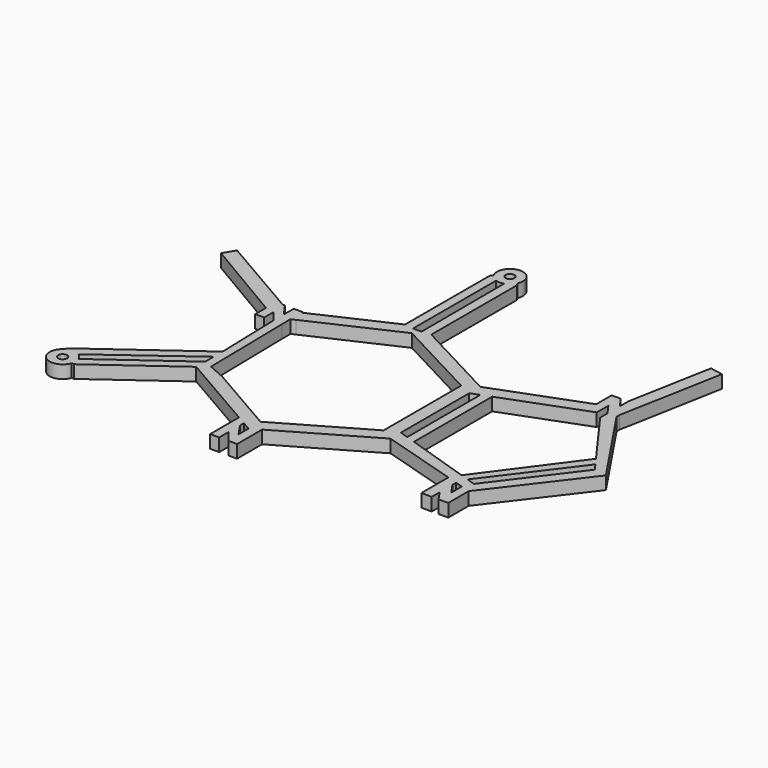
from build123d import *

# Parameters (mm, degrees)
F0_R     = 0.4318
F1_DEPTH = 1.27


with BuildPart() as f1:
    # F0 (on Top) → F1 (new body)
    with BuildSketch(Plane.XY):
        with BuildLine():
            Line((12.65347, -2.153963), (4.316134, 2.261672))
            Line((4.316134, 2.261672), (4.327364, 12.763659))
            Line((4.327364, 12.763659), (4.156866, 12.998858))
            ThreePointArc((4.156866, 12.998858), (2.963087, 14.80923), (1.900066, 12.919114))
            Line((1.900066, 12.919114), (1.711051, 12.659542))
            Line((1.711051, 12.659542), (1.699981, 2.307537))
            Line((1.699981, 2.307537), (-5.691423, -1.091549))
            Line((-5.691423, -1.091549), (-5.691423, -2.478054))
            Line((-5.691423, -2.478054), (-5.310308, -2.303015))
            Line((-5.310308, -2.303015), (3.007935, 1.517402))
            Line((3.007935, 1.517402), (11.38347, -2.918464))
            Line((11.38347, -2.918464), (11.38347, -3.767079))
            Line((11.38347, -3.767079), (11.38347, -4.793607))
            Line((11.38347, -4.793607), (11.383473, -10.512839))
            Line((11.383473, -10.512839), (11.383474, -11.539368))
            Line((11.383474, -11.539368), (11.383474, -12.419249))
            Line((11.383474, -12.419249), (3.128473, -17.185279))
            Line((3.128473, -17.185279), (2.03357, -16.553137))
            Line((2.03357, -16.553137), (1.14457, -16.039872))
            Line((1.14457, -16.039872), (-3.808432, -13.180257))
            Line((-3.808432, -13.180257), (-5.529587, -12.419254))
            Line((-5.529587, -12.419254), (-5.691423, -3.510934))
            Line((-5.691423, -3.510934), (-6.522282, -3.510934))
            Line((-6.522282, -3.510934), (-6.580308, -3.439569))
            Line((-6.580308, -3.439569), (-6.396528, -9.918688))
            Line((-6.396528, -9.918688), (-16.026936, -16.915588))
            Line((-16.026936, -16.915588), (-16.107216, -17.162667))
            ThreePointArc((-16.107216, -17.162667), (-16.212667, -19.229532), (-14.225404, -18.651748))
            Line((-14.225404, -18.651748), (-13.96561, -18.651748))
            Line((-13.96561, -18.651748), (-6.396528, -13.152489))
            Line((-6.396528, -13.152489), (1.39857, -17.652989))
            Line((1.39857, -17.652989), (1.39857, -18.651748))
            Line((1.39857, -18.651748), (1.39857, -21.191748))
            Line((1.39857, -21.191748), (2.28757, -21.191748))
            Line((2.28757, -21.191748), (2.28757, -20.055981))
            Line((2.28757, -20.055981), (3.207054, -21.186821))
            Line((3.207054, -21.186821), (4.037913, -21.191748))
            Line((4.037913, -21.191748), (4.037913, -18.646821))
            Line((4.037913, -18.646821), (4.037913, -18.126682))
            Line((4.037913, -18.126682), (12.653472, -13.152485))
            Line((12.653472, -13.152485), (20.12443, -15.416135))
            Line((20.12443, -15.416135), (20.12443, -16.178135))
            Line((20.12443, -16.178135), (20.12443, -18.718135))
            Line((20.12443, -18.718135), (21.140028, -18.718135))
            Line((21.140028, -18.718135), (21.140028, -17.745525))
            Line((21.140028, -17.745525), (21.809838, -18.718135))
            Line((21.809838, -18.718135), (22.763277, -18.718135))
            Line((22.763277, -18.718135), (22.763277, -16.215688))
            Line((22.763277, -16.215688), (29.330721, -7.616372))
            Line((29.330721, -7.616372), (23.89467, 0.487487))
            Line((23.89467, 0.487487), (23.89467, 0.851521))
            Line((23.89467, 0.851521), (23.89467, 3.027487))
            Line((23.89467, 3.027487), (23.00567, 3.027487))
            Line((23.00567, 3.027487), (23.00567, 2.007953))
            Line((23.00567, 2.007953), (22.273508, 3.027487))
            Line((22.273508, 3.027487), (21.384508, 3.027487))
            Line((21.384508, 3.027487), (21.384508, 1.132124))
            Line((21.384508, 1.132124), (12.65347, -2.153963))
        make_face()
        with Locations((-15.424598, -18.233617)):
            Circle(F0_R, mode=Mode.SUBTRACT)
        with BuildLine():
            Line((-14.7405, -17.163612), (-6.396528, -11.017552))
            Line((-6.396528, -11.017552), (-6.396528, -12.053624))
            Line((-6.396528, -12.053624), (-14.247226, -17.75749))
            ThreePointArc((-14.247226, -17.75749), (-14.447644, -17.422161), (-14.7405, -17.163612))
        make_face(mode=Mode.SUBTRACT)
        Polygon((2.28757, -18.166253), (3.128473, -18.651748), (3.128473, -19.879702), (2.28757, -18.646821), align=None, mode=Mode.SUBTRACT)
        Polygon((21.874277, -17.244328), (21.140028, -16.178135), (21.140028, -15.723854), (21.874277, -15.946327), (21.874277, -16.178135), align=None, mode=Mode.SUBTRACT)
        Polygon((12.653474, -11.882485), (12.65347, -3.510934), (13.49167, -3.195462), (13.49167, -12.154831), align=None, mode=Mode.SUBTRACT)
        Polygon((27.564501, -6.689476), (28.079566, -7.398402), (22.323207, -15.02437), (21.47986, -14.75035), align=None, mode=Mode.SUBTRACT)
        Polygon((23.00567, 0.487487), (23.00567, -0.414785), (27.016591, -5.935343), (20.685605, -14.492281), (14.38067, -12.443685), (14.38067, -2.860871), (22.259525, 0.104481), (22.259525, 0.487487), (22.259525, 1.524642), align=None, mode=Mode.SUBTRACT)
        with BuildLine():
            Line((3.392922, 12.32978), (3.427035, 2.169838))
            Line((3.427035, 2.169838), (2.588835, 2.169838))
            Line((2.588835, 2.169838), (2.599707, 12.33742))
            ThreePointArc((2.599707, 12.33742), (2.995703, 12.270081), (3.392922, 12.32978))
        make_face(mode=Mode.SUBTRACT)
        with Locations((3.007935, 13.540022)):
            Circle(F0_R, mode=Mode.SUBTRACT)
        Polygon((-8.330766, -0.970934), (-7.652898, -0.970934), (-16.021372, 3.877039), (-16.676927, 2.740892), (-8.330766, -2.189404), align=None)
        Polygon((-5.691423, -2.478054), (-5.691423, -1.091549), (-5.691423, -0.970934), (-6.580423, -0.970934), (-6.580423, -2.198888), (-7.441766, -0.970934), (-7.652898, -0.970934), (-8.330766, -0.970934), (-8.330766, -2.189404), (-8.330766, -3.510934), (-7.441766, -3.510934), (-7.441766, -2.380094), (-6.580308, -3.439569), (-6.522282, -3.510934), (-5.691423, -3.510934), align=None)
        with BuildLine():
            Line((12.65347, -2.153963), (4.316134, 2.261672))
            Line((4.316134, 2.261672), (4.327364, 12.763659))
            Line((4.327364, 12.763659), (4.156866, 12.998858))
            ThreePointArc((4.156866, 12.998858), (2.963087, 14.80923), (1.900066, 12.919114))
            Line((1.900066, 12.919114), (1.711051, 12.659542))
            Line((1.711051, 12.659542), (1.699981, 2.307537))
            Line((1.699981, 2.307537), (-5.691423, -1.091549))
            Line((-5.691423, -1.091549), (-5.691423, -2.478054))
            Line((-5.691423, -2.478054), (-5.310308, -2.303015))
            Line((-5.310308, -2.303015), (3.007935, 1.517402))
            Line((3.007935, 1.517402), (11.38347, -2.918464))
            Line((11.38347, -2.918464), (11.38347, -3.767079))
            Line((11.38347, -3.767079), (11.38347, -4.793607))
            Line((11.38347, -4.793607), (11.383473, -10.512839))
            Line((11.383473, -10.512839), (11.383474, -11.539368))
            Line((11.383474, -11.539368), (11.383474, -12.419249))
            Line((11.383474, -12.419249), (3.128473, -17.185279))
            Line((3.128473, -17.185279), (2.03357, -16.553137))
            Line((2.03357, -16.553137), (1.14457, -16.039872))
            Line((1.14457, -16.039872), (-3.808432, -13.180257))
            Line((-3.808432, -13.180257), (-5.529587, -12.419254))
            Line((-5.529587, -12.419254), (-5.691423, -3.510934))
            Line((-5.691423, -3.510934), (-6.522282, -3.510934))
            Line((-6.522282, -3.510934), (-6.580308, -3.439569))
            Line((-6.580308, -3.439569), (-6.396528, -9.918688))
            Line((-6.396528, -9.918688), (-16.026936, -16.915588))
            Line((-16.026936, -16.915588), (-16.107216, -17.162667))
            ThreePointArc((-16.107216, -17.162667), (-16.212667, -19.229532), (-14.225404, -18.651748))
            Line((-14.225404, -18.651748), (-13.96561, -18.651748))
            Line((-13.96561, -18.651748), (-6.396528, -13.152489))
            Line((-6.396528, -13.152489), (1.39857, -17.652989))
            Line((1.39857, -17.652989), (1.39857, -18.651748))
            Line((1.39857, -18.651748), (1.39857, -21.191748))
            Line((1.39857, -21.191748), (2.28757, -21.191748))
            Line((2.28757, -21.191748), (2.28757, -20.055981))
            Line((2.28757, -20.055981), (3.207054, -21.186821))
            Line((3.207054, -21.186821), (4.037913, -21.191748))
            Line((4.037913, -21.191748), (4.037913, -18.646821))
            Line((4.037913, -18.646821), (4.037913, -18.126682))
            Line((4.037913, -18.126682), (12.653472, -13.152485))
            Line((12.653472, -13.152485), (20.12443, -15.416135))
            Line((20.12443, -15.416135), (20.12443, -16.178135))
            Line((20.12443, -16.178135), (20.12443, -18.718135))
            Line((20.12443, -18.718135), (21.140028, -18.718135))
            Line((21.140028, -18.718135), (21.140028, -17.745525))
            Line((21.140028, -17.745525), (21.809838, -18.718135))
            Line((21.809838, -18.718135), (22.763277, -18.718135))
            Line((22.763277, -18.718135), (22.763277, -16.215688))
            Line((22.763277, -16.215688), (29.330721, -7.616372))
            Line((29.330721, -7.616372), (23.89467, 0.487487))
            Line((23.89467, 0.487487), (23.89467, 0.851521))
            Line((23.89467, 0.851521), (23.89467, 3.027487))
            Line((23.89467, 3.027487), (23.00567, 3.027487))
            Line((23.00567, 3.027487), (23.00567, 2.007953))
            Line((23.00567, 2.007953), (22.273508, 3.027487))
            Line((22.273508, 3.027487), (21.384508, 3.027487))
            Line((21.384508, 3.027487), (21.384508, 1.132124))
            Line((21.384508, 1.132124), (12.65347, -2.153963))
        make_face()
        with Locations((-15.424598, -18.233617)):
            Circle(F0_R, mode=Mode.SUBTRACT)
        with BuildLine():
            Line((-14.7405, -17.163612), (-6.396528, -11.017552))
            Line((-6.396528, -11.017552), (-6.396528, -12.053624))
            Line((-6.396528, -12.053624), (-14.247226, -17.75749))
            ThreePointArc((-14.247226, -17.75749), (-14.447644, -17.422161), (-14.7405, -17.163612))
        make_face(mode=Mode.SUBTRACT)
        Polygon((2.28757, -18.166253), (3.128473, -18.651748), (3.128473, -19.879702), (2.28757, -18.646821), align=None, mode=Mode.SUBTRACT)
        Polygon((21.874277, -17.244328), (21.140028, -16.178135), (21.140028, -15.723854), (21.874277, -15.946327), (21.874277, -16.178135), align=None, mode=Mode.SUBTRACT)
        Polygon((12.653474, -11.882485), (12.65347, -3.510934), (13.49167, -3.195462), (13.49167, -12.154831), align=None, mode=Mode.SUBTRACT)
        Polygon((27.564501, -6.689476), (28.079566, -7.398402), (22.323207, -15.02437), (21.47986, -14.75035), align=None, mode=Mode.SUBTRACT)
        Polygon((23.00567, 0.487487), (23.00567, -0.414785), (27.016591, -5.935343), (20.685605, -14.492281), (14.38067, -12.443685), (14.38067, -2.860871), (22.259525, 0.104481), (22.259525, 0.487487), (22.259525, 1.524642), align=None, mode=Mode.SUBTRACT)
        with BuildLine():
            Line((3.392922, 12.32978), (3.427035, 2.169838))
            Line((3.427035, 2.169838), (2.588835, 2.169838))
            Line((2.588835, 2.169838), (2.599707, 12.33742))
            ThreePointArc((2.599707, 12.33742), (2.995703, 12.270081), (3.392922, 12.32978))
        make_face(mode=Mode.SUBTRACT)
        with Locations((3.007935, 13.540022)):
            Circle(F0_R, mode=Mode.SUBTRACT)
        Polygon((24.531044, 11.272838), (23.00567, 3.027487), (23.89467, 3.027487), (23.89467, 0.851521), (25.779854, 11.04181), align=None)
    extrude(amount=F1_DEPTH)


solid = f1.part
